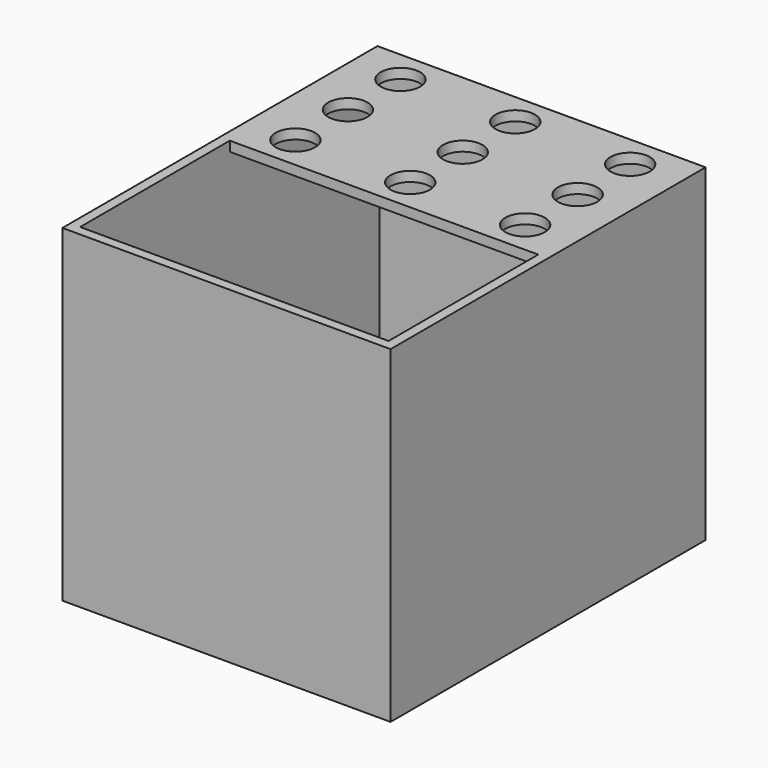
from build123d import *

# Parameters (mm, degrees)
F0_W     = 100
F0_H     = 120
F1_DEPTH = 100
F2_T     = -3
F3_W     = 100
F3_H     = 60
F4_DEPTH = 3
F5_R     = 6
F6_DEPTH = 25


with BuildPart() as f1:
    # F0 (on Top) → F1 (new body)
    with BuildSketch(Plane.XY):
        Rectangle(F0_W, F0_H)
    extrude(amount=F1_DEPTH)

    # F2
    f2_openings = [f1.faces().sort_by_distance(p)[0] for p in [
        (0, 0, 100),
    ]]
    offset(amount=F2_T, openings=f2_openings)

    # F3 (on face) → F4 (join)
    with BuildSketch(Plane.XY.offset(100)):
        with Locations((0, 30)):
            Rectangle(F3_W, F3_H)
    extrude(amount=-F4_DEPTH)

    # F5 (on face) → F6 (cut)
    with BuildSketch(Plane.XY.offset(100)):
        with Locations((0, 30)):
            Circle(F5_R)
        with Locations((35, 30)):
            Circle(F5_R)
        with Locations((-35, 30)):
            Circle(F5_R)
        with Locations((-35, 50)):
            Circle(F5_R)
        with Locations((0, 50)):
            Circle(F5_R)
        with Locations((35, 50)):
            Circle(F5_R)
        with Locations((-35, 10)):
            Circle(F5_R)
        with Locations((0, 10)):
            Circle(F5_R)
        with Locations((35, 10)):
            Circle(F5_R)
    extrude(amount=-F6_DEPTH, mode=Mode.SUBTRACT)


solid = f1.part
